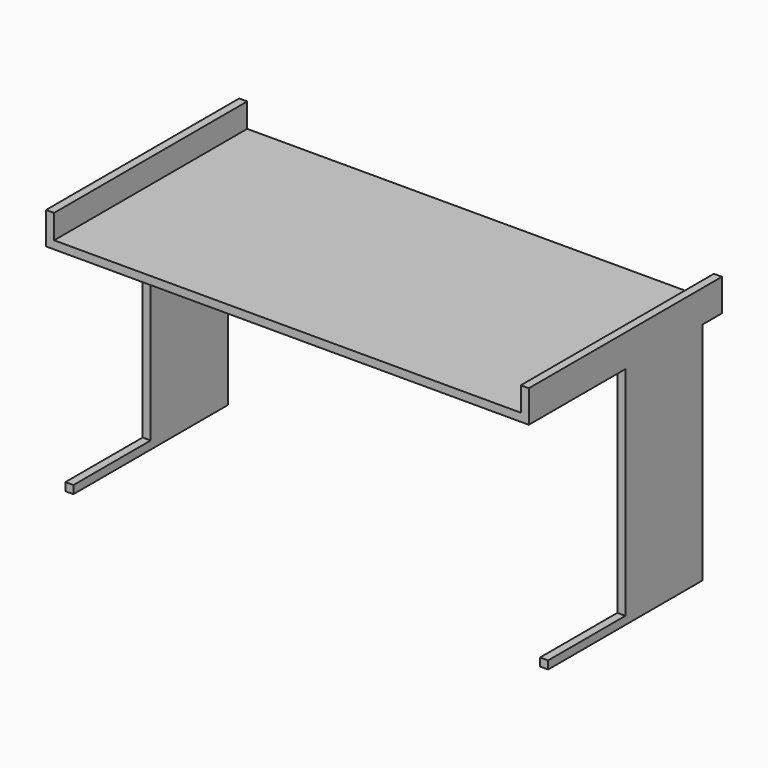
from build123d import *

# Parameters (mm, degrees)
F0_W      = 1524
F0_H      = 762
F1_DEPTH  = 25.4
F2_W      = 25.4
F2_H      = 304.8
F3_DEPTH  = 685.8
F5_W      = 25.4
F5_H      = 609.6
F4_W      = 25.4
F4_H      = 609.6
F6_DEPTH  = 25.4
F7_W      = 25.4
F7_H      = 203.2
F8_DEPTH  = 1473.2
F9_W      = 25.4
F9_H      = 762
F10_DEPTH = 76.2


with BuildPart() as f1:
    # F0 (on Top) → F1 (new body)
    with BuildSketch(Plane.XY):
        Rectangle(F0_W, F0_H)
    extrude(amount=-F1_DEPTH)

    # F2 (on face) → F3 (join)
    with BuildSketch(Plane(origin=(0, 0, -25.4), x_dir=(1, 0, 0), z_dir=(0, 0, -1))):
        with Locations((749.3, -152.4)):
            Rectangle(F2_W, F2_H)
        with Locations((-749.3, -152.4)):
            Rectangle(F2_W, F2_H)
    extrude(amount=F3_DEPTH)

    # F5 (on face) + F4 (on face) → F6 (join)
    with BuildSketch(Plane(origin=(0, 0, -711.2), x_dir=(1, 0, 0), z_dir=(0, 0, -1))):
        with Locations((-749.3, 0)):
            Rectangle(F5_W, F5_H)
    with BuildSketch(Plane(origin=(0, 0, -711.2), x_dir=(1, 0, 0), z_dir=(0, 0, -1))):
        with Locations((749.3, 0)):
            Rectangle(F4_W, F4_H)
    extrude(amount=F6_DEPTH)

    # F7 (on face) → F8 (join, through all)
    with BuildSketch(Plane.YZ.offset(-736.6)):
        with Locations((292.1, -127)):
            Rectangle(F7_W, F7_H)
    extrude(amount=F8_DEPTH)

    # F9 (on face) → F10 (join)
    with BuildSketch(Plane.XY):
        with Locations((749.3, 0)):
            Rectangle(F9_W, F9_H)
        with Locations((-749.3, 0)):
            Rectangle(F9_W, F9_H)
    extrude(amount=F10_DEPTH)


solid = f1.part
